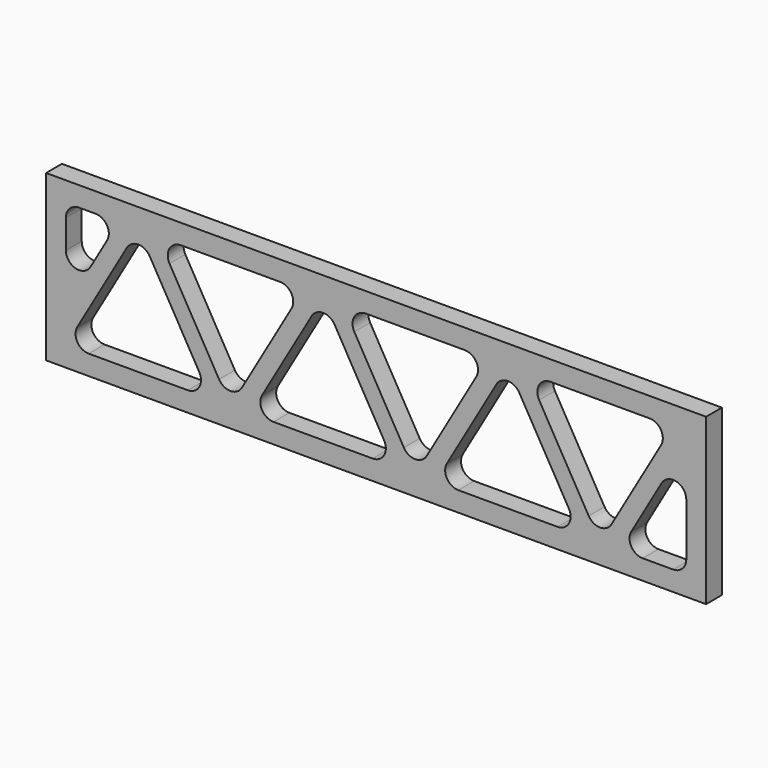
from build123d import *

# Parameters (mm, degrees)
F0_W     = 100
F0_H     = 25
F1_DEPTH = 3


with BuildPart() as f1:
    # F0 (on Front) → F1 (new body)
    with BuildSketch(Plane.XZ):
        with Locations((50, 12.5)):
            Rectangle(F0_W, F0_H)
        with BuildLine():
            Line((4.732051, 6), (12.237604, 19))
            ThreePointArc((12.237604, 19), (13.969655, 20), (15.701706, 19))
            Line((15.701706, 19), (23.207259, 6))
            ThreePointArc((23.207259, 6), (23.207259, 4), (21.475209, 3))
            Line((21.475209, 3), (6.464102, 3))
            ThreePointArc((6.464102, 3), (4.732051, 4), (4.732051, 6))
        make_face(mode=Mode.SUBTRACT)
        with BuildLine():
            ThreePointArc((51.207259, 6), (51.207259, 4), (49.475209, 3))
            Line((49.475209, 3), (34.464102, 3))
            ThreePointArc((34.464102, 3), (32.732051, 4), (32.732051, 6))
            Line((32.732051, 6), (40.237604, 19))
            ThreePointArc((40.237604, 19), (41.969655, 20), (43.701706, 19))
            Line((43.701706, 19), (51.207259, 6))
        make_face(mode=Mode.SUBTRACT)
        with BuildLine():
            ThreePointArc((79.207259, 6), (79.207259, 4), (77.475209, 3))
            Line((77.475209, 3), (62.464102, 3))
            ThreePointArc((62.464102, 3), (60.732051, 4), (60.732051, 6))
            Line((60.732051, 6), (68.237604, 19))
            ThreePointArc((68.237604, 19), (69.969655, 20), (71.701706, 19))
            Line((71.701706, 19), (79.207259, 6))
        make_face(mode=Mode.SUBTRACT)
        with BuildLine():
            Line((97, 12.961524), (97, 5))
            ThreePointArc((97, 5), (96.414214, 3.585786), (95, 3))
            Line((95, 3), (90.403412, 3))
            ThreePointArc((90.403412, 3), (88.671361, 4), (88.671361, 6))
            Line((88.671361, 6), (93.267949, 13.961524))
            ThreePointArc((93.267949, 13.961524), (95.517638, 14.893376), (97, 12.961524))
        make_face(mode=Mode.SUBTRACT)
        with BuildLine():
            ThreePointArc((3, 20), (3.585786, 21.414214), (5, 22))
            Line((5, 22), (7.505553, 22))
            ThreePointArc((7.505553, 22), (9.237604, 21), (9.237604, 19))
            Line((9.237604, 19), (6.732051, 14.660254))
            ThreePointArc((6.732051, 14.660254), (4.482362, 13.728402), (3, 15.660254))
            Line((3, 15.660254), (3, 20))
        make_face(mode=Mode.SUBTRACT)
        with BuildLine():
            Line((26.207259, 6), (18.701706, 19))
            ThreePointArc((18.701706, 19), (18.701706, 21), (20.433757, 22))
            Line((20.433757, 22), (35.444864, 22))
            ThreePointArc((35.444864, 22), (37.176915, 21), (37.176915, 19))
            Line((37.176915, 19), (29.671361, 6))
            ThreePointArc((29.671361, 6), (27.93931, 5), (26.207259, 6))
        make_face(mode=Mode.SUBTRACT)
        with BuildLine():
            Line((65.176915, 19), (57.671361, 6))
            ThreePointArc((57.671361, 6), (55.93931, 5), (54.207259, 6))
            Line((54.207259, 6), (46.701706, 19))
            ThreePointArc((46.701706, 19), (46.701706, 21), (48.433757, 22))
            Line((48.433757, 22), (63.444864, 22))
            ThreePointArc((63.444864, 22), (65.176915, 21), (65.176915, 19))
        make_face(mode=Mode.SUBTRACT)
        with BuildLine():
            Line((93.176915, 19), (85.671361, 6))
            ThreePointArc((85.671361, 6), (83.93931, 5), (82.207259, 6))
            Line((82.207259, 6), (74.701706, 19))
            ThreePointArc((74.701706, 19), (74.701706, 21), (76.433757, 22))
            Line((76.433757, 22), (91.444864, 22))
            ThreePointArc((91.444864, 22), (93.176915, 21), (93.176915, 19))
        make_face(mode=Mode.SUBTRACT)
    extrude(amount=F1_DEPTH)


solid = f1.part
